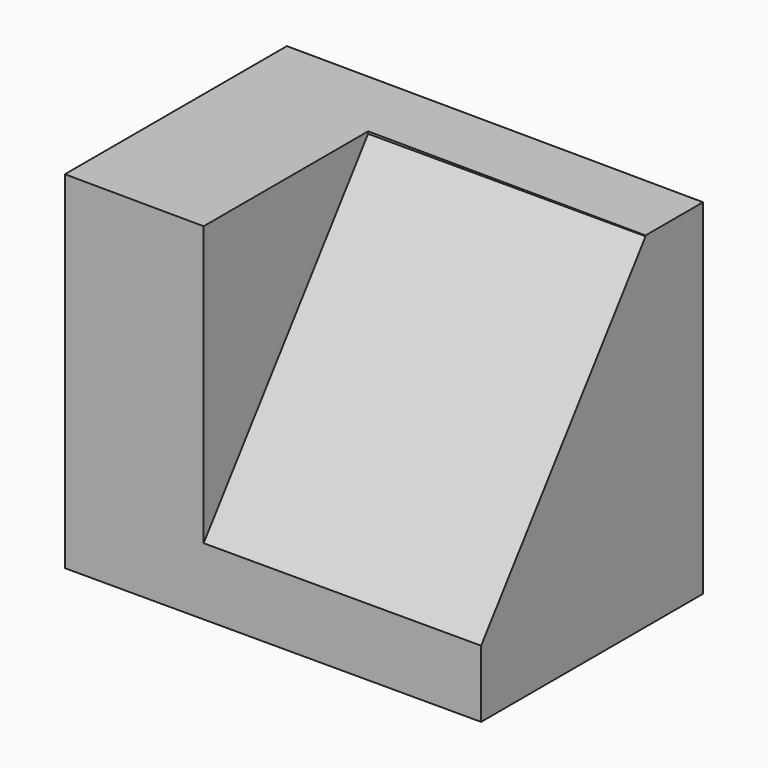
from build123d import *

# Parameters (mm, degrees)
F1_DEPTH  = 25.4
F3_DEPTH  = 25.4
F3_FACE_W = 25.4
F3_FACE_H = 18.81851
F4_DEPTH  = 0.268369


with BuildPart() as f1:
    # F0 (on Front) → F1 (new body)
    with BuildSketch(Plane.XZ):
        Polygon((0, 31.558946), (-38.099521, 31.75), (-38.099521, 0), (0, 0), align=None)
    extrude(amount=F1_DEPTH)

    # F2 (on Right) → F3 (cut)
    with BuildSketch(Plane.YZ):
        Polygon((-25.44473, 6.083318), (-6.581489, 31.482631), (-25.631489, 31.482631), align=None)
    extrude(amount=-F3_DEPTH, mode=Mode.SUBTRACT)

    # F3_face (on face) → F4 (cut, through all)
    with BuildSketch(Plane(origin=(-12.7, -15.990745, 31.482631), x_dir=(1, 0, 0), z_dir=(0, 0, -1))):
        Rectangle(F3_FACE_W, F3_FACE_H)
    extrude(amount=-F4_DEPTH, mode=Mode.SUBTRACT)


solid = f1.part
